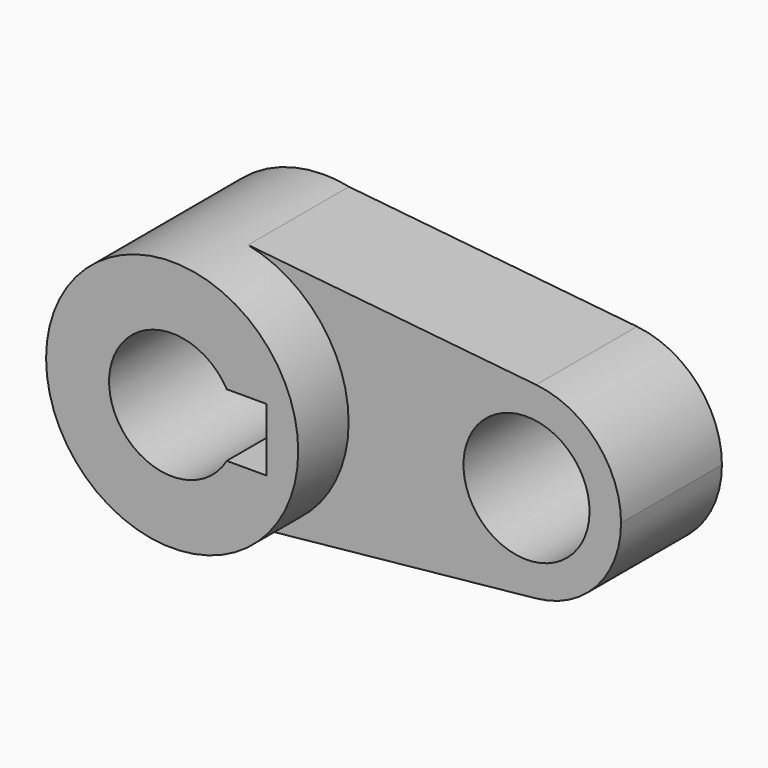
from build123d import *

# Parameters (mm, degrees)
F0_R     = 12.7
F1_DEPTH = 25.4
F3_DEPTH = 12.7


with BuildPart() as f1:
    # F0 (on Front) → F1 (new body)
    with BuildSketch(Plane.XZ):
        with BuildLine():
            Line((5.1321164003, 24.8761207035), (0, 25.4))
            ThreePointArc((0, 25.4), (-25.4, 0), (0, -25.4))
            Line((0, -25.4), (5.1321164003, -24.8761207035))
            ThreePointArc((5.1321164003, -24.8761207035), (19.6915687106, -16.0437564715), (25.4, 0))
            ThreePointArc((25.4, 0), (19.6915687106, 16.0437564715), (5.1321164003, 24.8761207035))
        make_face()
        with BuildLine():
            ThreePointArc((-10.9985226281, 6.35), (0, 12.7), (10.9985226281, 6.35))
            Line((10.9985226281, 6.35), (19.05, 6.35))
            Line((19.05, 6.35), (19.05, -6.35))
            Line((19.05, -6.35), (10.9985226281, -6.35))
            ThreePointArc((10.9985226281, -6.35), (0, -12.7), (-10.9985226281, -6.35))
            Line((-10.9985226281, -6.35), (-19.05, -6.35))
            Line((-19.05, -6.35), (-19.05, 6.35))
            Line((-19.05, 6.35), (-10.9985226281, 6.35))
        make_face(mode=Mode.SUBTRACT)
        with BuildLine():
            Line((63.1717269104, 18.9515180731), (5.1321164003, 24.8761207035))
            ThreePointArc((5.1321164003, 24.8761207035), (19.6915687106, 16.0437564715), (25.4, 0))
            ThreePointArc((25.4, 0), (19.6915687106, -16.0437564715), (5.1321164003, -24.8761207035))
            Line((5.1321164003, -24.8761207035), (63.1717269104, -18.9515180731))
            ThreePointArc((63.1717269104, -18.9515180731), (42.1871823323, 0), (63.1717269104, 18.9515180731))
        make_face()
        with BuildLine():
            ThreePointArc((80.2871823323, 0), (75.3749964174, 12.7681131297), (63.1717269104, 18.9515180731))
            ThreePointArc((63.1717269104, 18.9515180731), (42.1871823323, 0), (63.1717269104, -18.9515180731))
            ThreePointArc((63.1717269104, -18.9515180731), (75.3749964174, -12.7681131297), (80.2871823323, 0))
        make_face()
        with Locations((61.2371823323, 0)):
            Circle(F0_R, mode=Mode.SUBTRACT)
        with BuildLine():
            ThreePointArc((-10.9985226281, -6.35), (-12.7, 0), (-10.9985226281, 6.35))
            Line((-10.9985226281, 6.35), (-19.05, 6.35))
            Line((-19.05, 6.35), (-19.05, -6.35))
            Line((-19.05, -6.35), (-10.9985226281, -6.35))
        make_face()
        with BuildLine():
            ThreePointArc((5.1321164003, 24.8761207035), (2.5793927708, 25.2686907641), (0, 25.4))
            Line((0, 25.4), (5.1321164003, 24.8761207035))
        make_face()
        with BuildLine():
            Line((5.1321164003, -24.8761207035), (0, -25.4))
            ThreePointArc((0, -25.4), (2.5793927708, -25.2686907641), (5.1321164003, -24.8761207035))
        make_face()
    extrude(amount=F1_DEPTH)

    # F2 (on face) → F3 (join)
    with BuildSketch(Plane.XZ.offset(25.4)):
        with BuildLine():
            ThreePointArc((5.1321164003, -24.8761207035), (19.6915687106, -16.0437564715), (25.4, 0))
            ThreePointArc((25.4, 0), (19.6915687106, 16.0437564715), (5.1321164003, 24.8761207035))
            ThreePointArc((5.1321164003, 24.8761207035), (-25.4, 0), (5.1321164003, -24.8761207035))
        make_face()
        with BuildLine():
            ThreePointArc((-10.9985226281, 6.35), (0, 12.7), (10.9985226281, 6.35))
            Line((10.9985226281, 6.35), (19.05, 6.35))
            Line((19.05, 6.35), (19.05, -6.35))
            Line((19.05, -6.35), (10.9985226281, -6.35))
            ThreePointArc((10.9985226281, -6.35), (0, -12.7), (-10.9985226281, -6.35))
            Line((-10.9985226281, -6.35), (-19.05, -6.35))
            Line((-19.05, -6.35), (-19.05, 6.35))
            Line((-19.05, 6.35), (-10.9985226281, 6.35))
        make_face(mode=Mode.SUBTRACT)
        with BuildLine():
            ThreePointArc((-10.9985226281, -6.35), (-12.7, 0), (-10.9985226281, 6.35))
            Line((-10.9985226281, 6.35), (-19.05, 6.35))
            Line((-19.05, 6.35), (-19.05, -6.35))
            Line((-19.05, -6.35), (-10.9985226281, -6.35))
        make_face()
    extrude(amount=F3_DEPTH)


solid = f1.part
